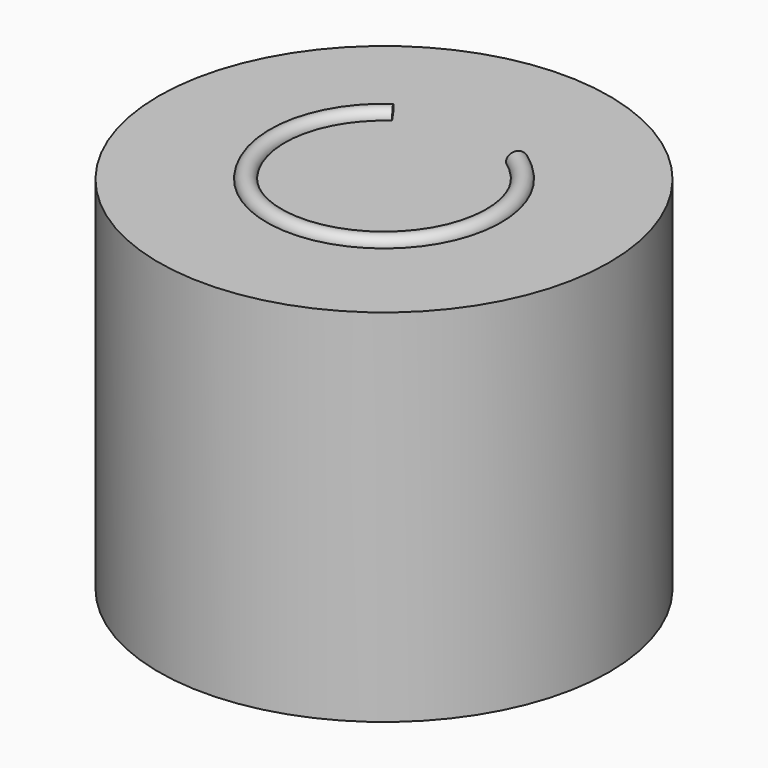
from build123d import *

# Parameters (mm, degrees)
CYLINDER005_R         = 6.25
CYLINDER005_DEPTH     = 10
TORUS_R               = 0.25
TORUS_ANGLE           = 290
TORUS_PLACEMENT_ANGLE = 125


with BuildPart() as power_butt:
    # Cylinder005 → Cylinder005 (new body)
    with BuildSketch(Plane(origin=(61, 31, 27), x_dir=(1, 0, 0), z_dir=(0, 0, 1))):
        Circle(CYLINDER005_R)
    extrude(amount=CYLINDER005_DEPTH)


with BuildPart() as power_button:
    # Torus → Torus (revolve)
    with BuildSketch(Plane.XZ):
        with Locations((3, 0)):
            Circle(TORUS_R)
    revolve(axis=Axis((0, 0, 0), (0, 0, 1)), revolution_arc=TORUS_ANGLE)


with BuildPart() as power_button_1:
    # Torus placement: moved
    add(power_button.part.moved(Location((61, 31, 37))).rotate(Axis((61, 31, 37), (0, 0, 1)), TORUS_PLACEMENT_ANGLE))

    # Fusion006: union power_butt
    add(power_butt.part)


solid = power_button_1.part
